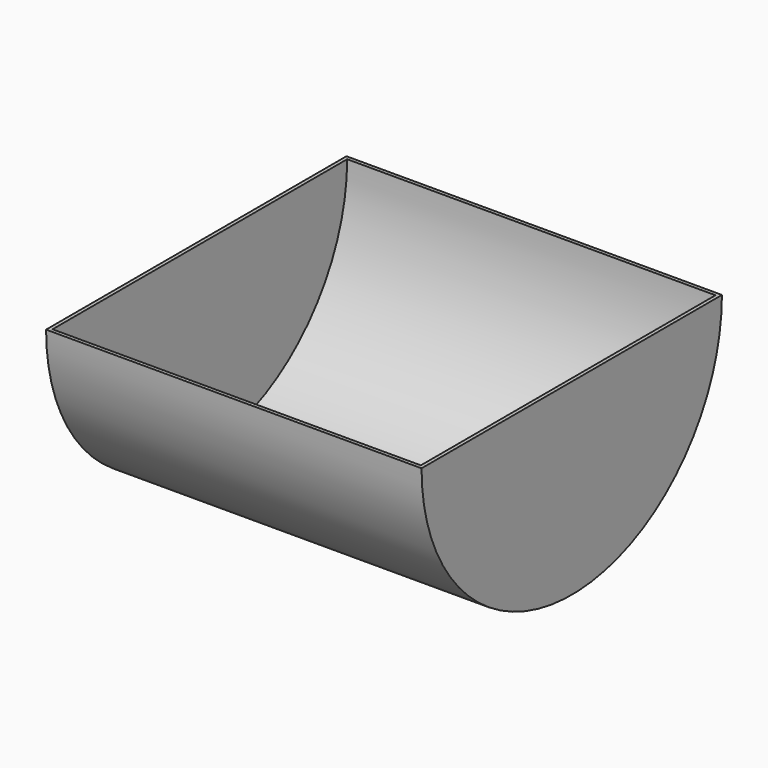
from build123d import *

# Parameters (mm, degrees)
F1_DEPTH = 266.7
F2_T     = -2.54


with BuildPart() as f1:
    # F0 (on Right) → F1 (new body)
    with BuildSketch(Plane.YZ):
        with BuildLine():
            Line((133.35, 0), (-133.35, 0))
            ThreePointArc((-133.35, 0), (0, -133.35), (133.35, 0))
        make_face()
    extrude(amount=-F1_DEPTH)

    # F2
    f2_openings = [f1.faces().sort_by_distance(p)[0] for p in [
        (-133.35, 0, 0),
    ]]
    offset(amount=F2_T, openings=f2_openings)


solid = f1.part
